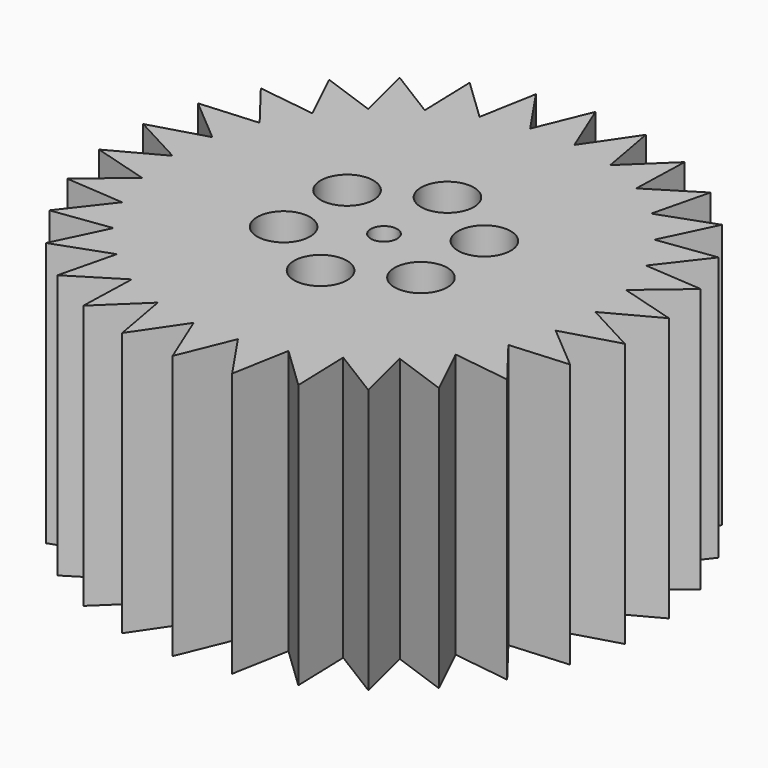
from build123d import *

# Parameters (mm, degrees)
F0_R     = 5
F0_R_2   = 2.5
F1_DEPTH = 50


with BuildPart() as f1:
    # F0 (on Top) → F1 (new body)
    with BuildSketch(Plane.XY):
        Polygon((40, 0), (49.726095, 5.226423), (39.125904, 8.316468), (47.552826, 15.45085), (36.541818, 16.269466), (43.30127, 25), (32.36068, 23.51141), (37.157241, 33.45653), (26.765224, 29.725793), (29.389263, 40.45085), (20, 34.641016), (20.336832, 45.677273), (12.36068, 38.042261), (10.395585, 48.90738), (4.181139, 39.780876), (0, 50), (-4.181139, 39.780876), (-10.395585, 48.90738), (-12.36068, 38.042261), (-20.336832, 45.677273), (-20, 34.641016), (-29.389263, 40.45085), (-26.765224, 29.725793), (-37.157241, 33.45653), (-32.36068, 23.51141), (-43.30127, 25), (-36.541818, 16.269466), (-47.552826, 15.45085), (-39.125904, 8.316468), (-49.726095, 5.226423), (-40, 0), (-49.726095, -5.226423), (-39.125904, -8.316468), (-47.552826, -15.45085), (-36.541818, -16.269466), (-43.30127, -25), (-32.36068, -23.51141), (-37.157241, -33.45653), (-26.765224, -29.725793), (-29.389263, -40.45085), (-20, -34.641016), (-20.336832, -45.677273), (-12.36068, -38.042261), (-10.395585, -48.90738), (-4.181139, -39.780876), (0, -50), (4.181139, -39.780876), (10.395585, -48.90738), (12.36068, -38.042261), (20.336832, -45.677273), (20, -34.641016), (29.389263, -40.45085), (26.765224, -29.725793), (37.157241, -33.45653), (32.36068, -23.51141), (43.30127, -25), (36.541818, -16.269466), (47.552826, -15.45085), (39.125904, -8.316468), (49.726095, -5.226423), align=None)
        with Locations((-12.990381, -7.5)):
            Circle(F0_R, mode=Mode.SUBTRACT)
        with Locations((0, -15)):
            Circle(F0_R, mode=Mode.SUBTRACT)
        with Locations((12.990381, -7.5)):
            Circle(F0_R, mode=Mode.SUBTRACT)
        with Locations((-12.990381, 7.5)):
            Circle(F0_R, mode=Mode.SUBTRACT)
        Circle(F0_R_2, mode=Mode.SUBTRACT)
        with Locations((12.990381, 7.5)):
            Circle(F0_R, mode=Mode.SUBTRACT)
        with Locations((0, 15)):
            Circle(F0_R, mode=Mode.SUBTRACT)
    extrude(amount=F1_DEPTH)


solid = f1.part
